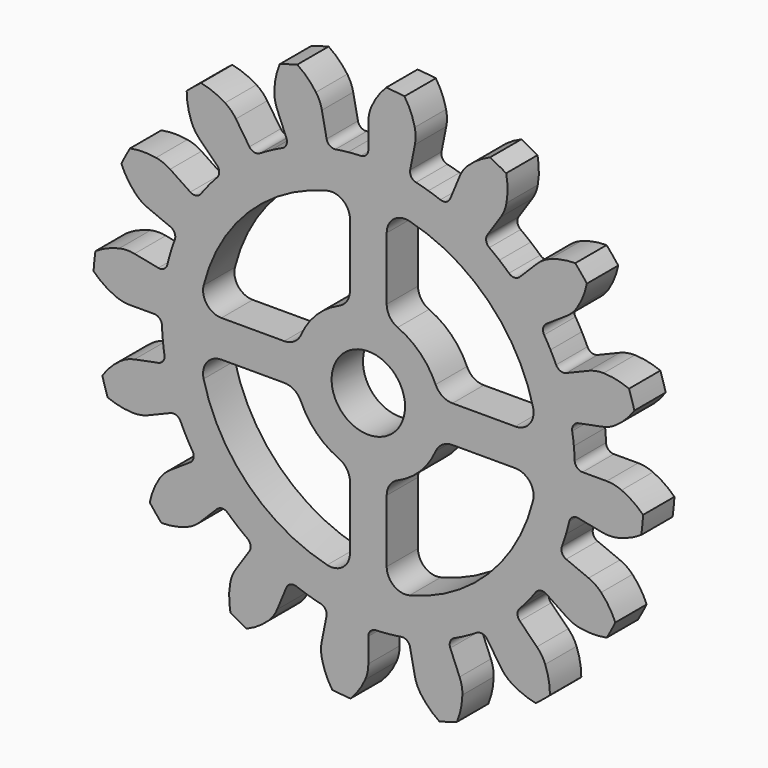
from build123d import *

# Parameters (mm, degrees)
SKETCH004_R           = 22.5
PAD004_DEPTH          = 3.2
POCKET_DEPTH          = 127.441025
POCKET_DEPTH_BACK     = 130.641025
POLARPATTERN_COUNT    = 16
POCKET014_DEPTH       = 130.372633
POLARPATTERN005_COUNT = 16
SKETCH024_R           = 3
POCKET015_DEPTH       = 0.001
POCKET015_DEPTH_BACK  = 3.201
POCKET016_DEPTH       = 5
POLARPATTERN006_COUNT = 4


with BuildPart() as part:
    # Sketch004 → Pad004 (new body)
    with BuildSketch(Plane.XZ):
        Circle(SKETCH004_R)
    extrude(amount=PAD004_DEPTH)

    # Sketch003 → Pocket (cut, two sides)
    with BuildSketch(Plane.XZ) as pocket_sk:
        with BuildLine():
            ThreePointArc((1.461333, 22.452494), (0.577758, 21.317359), (0, 20))
            Line((0, 20), (0, 17.5))
            ThreePointArc((-0.613434, 16.863847), (-0.17834, 17.058131), (0, 17.5))
            ThreePointArc((-0.613434, 16.863847), (-1.134612, 16.836813), (-1.654706, 16.793677))
            Line((-1.654706, 16.793677), (-2.635272, 26.745485))
            ThreePointArc((7.81058, 25.714985), (2.638453, 26.745171), (-2.635272, 26.745485))
            Line((4.904318, 16.146619), (7.81058, 25.714985))
            ThreePointArc((4.904318, 16.146619), (4.402679, 16.290551), (3.896829, 16.418902))
            ThreePointArc((3.419526, 17.162658), (3.508086, 16.69446), (3.896829, 16.418902))
            Line((3.419526, 17.162658), (3.908029, 19.614467))
            ThreePointArc((3.908029, 19.614467), (3.598822, 21.019326), (2.954087, 22.305232))
            ThreePointArc((2.954087, 22.305232), (2.208938, 22.391306), (1.461333, 22.452494))
        make_face()
    pocket = extrude(amount=-POCKET_DEPTH, mode=Mode.SUBTRACT) + extrude(pocket_sk.sketch, amount=POCKET_DEPTH_BACK, mode=Mode.SUBTRACT)

    # PolarPattern: Pocket ×16 about axis
    polarpattern_axis = Axis((0, 0, 0), (0, 1, 0))
    for i in range(1, POLARPATTERN_COUNT):
        add(pocket.rotate(polarpattern_axis, i * 360 / POLARPATTERN_COUNT), mode=Mode.SUBTRACT)

    # Sketch023 (on Face114 of PolarPattern) → Pocket014 (cut, through all)
    with BuildSketch(Plane.XZ.offset(3.2)):
        with BuildLine():
            ThreePointArc((0.257563, 20.698372), (0.065097, 20.103781), (0, 19.482216))
            Line((0, 19.482216), (-0.637583, 20.252598))
            Line((0.257563, 20.698372), (-0.637583, 20.252598))
        make_face()
        with BuildLine():
            ThreePointArc((3.806854, 19.106664), (3.864466, 19.728968), (3.791895, 20.349705))
            Line((3.791895, 20.349705), (4.58268, 19.737611))
            Line((3.806854, 19.106664), (4.58268, 19.737611))
        make_face()
    pocket014 = extrude(amount=-POCKET014_DEPTH, mode=Mode.SUBTRACT)

    # PolarPattern005: Pocket014 ×16 about axis
    polarpattern005_axis = Axis((0, -3.2, 0), (0, -1, 0))
    for i in range(1, POLARPATTERN005_COUNT):
        add(pocket014.rotate(polarpattern005_axis, i * 360 / POLARPATTERN005_COUNT), mode=Mode.SUBTRACT)

    # Sketch024 → Pocket015 (cut, two sides)
    with BuildSketch(Plane.XZ) as pocket015_sk:
        Circle(SKETCH024_R)
    extrude(amount=-POCKET015_DEPTH, mode=Mode.SUBTRACT)
    extrude(pocket015_sk.sketch, amount=POCKET015_DEPTH_BACK, mode=Mode.SUBTRACT)

    # Sketch025 (on Face163 of Pocket015) → Pocket016 (cut)
    with BuildSketch(Plane.XZ.offset(3.2)):
        with BuildLine():
            ThreePointArc((13.461113, 3.363636), (9.811107, 9.811107), (3.363636, 13.461113))
            ThreePointArc((3.363636, 13.461113), (2.076814, 13.188113), (1.5, 12.005858))
            Line((1.5, 12.005858), (1.5, 6.873864))
            ThreePointArc((1.5, 6.873864), (1.74501, 6.05228), (2.4, 5.499091))
            ThreePointArc((5.499091, 2.4), (4.242641, 4.242641), (2.4, 5.499091))
            ThreePointArc((5.499091, 2.4), (6.05228, 1.74501), (6.873864, 1.5))
            Line((6.873864, 1.5), (12.005858, 1.5))
            ThreePointArc((12.005858, 1.5), (13.188113, 2.076814), (13.461113, 3.363636))
        make_face()
    pocket016 = extrude(amount=-POCKET016_DEPTH, mode=Mode.SUBTRACT)

    # PolarPattern006: Pocket016 ×4 about axis
    polarpattern006_axis = Axis((0, -3.2, 0), (0, -1, 0))
    for i in range(1, POLARPATTERN006_COUNT):
        add(pocket016.rotate(polarpattern006_axis, i * 360 / POLARPATTERN006_COUNT), mode=Mode.SUBTRACT)


with BuildPart() as part_1:
    # Body002 placement: moved
    add(part.part.moved(Location((0, -9, 28.28))))


solid = part_1.part
